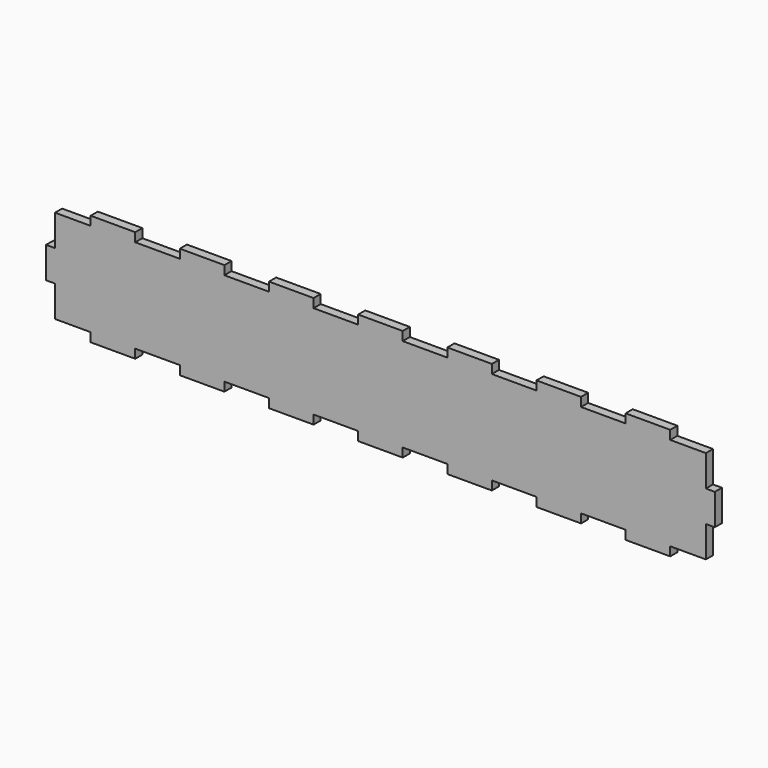
from build123d import *

# Parameters (mm, degrees)
F1_DEPTH = 4
F2_W     = 4
F2_H     = 14
F3_DEPTH = 4


with BuildPart() as f1:
    # F0 (on Front) → F1 (new body)
    with BuildSketch(Plane.XZ):
        Polygon((-40, 0), (-20, 0), (-20, 4), (0, 4), (0, 46), (-20, 46), (-20, 50), (-40, 50), (-40, 46), (-60, 46), (-60, 50), (-80, 50), (-80, 46), (-100, 46), (-100, 50), (-120, 50), (-120, 46), (-140, 46), (-140, 50), (-160, 50), (-160, 46), (-180, 46), (-180, 50), (-200, 50), (-200, 46), (-220, 46), (-220, 50), (-240, 50), (-240, 46), (-260, 46), (-260, 50), (-280, 50), (-280, 46), (-300, 46), (-300, 4), (-280, 4), (-280, 0), (-260, 0), (-260, 4), (-240, 4), (-240, 0), (-220, 0), (-220, 4), (-200, 4), (-200, 0), (-180, 0), (-180, 4), (-160, 4), (-160, 0), (-140, 0), (-140, 4), (-120, 4), (-120, 0), (-100, 0), (-100, 4), (-80, 4), (-80, 0), (-60, 0), (-60, 4), (-40, 4), align=None)
    extrude(amount=F1_DEPTH)

    # F2 (on Front) → F3 (cut)
    with BuildSketch(Plane.XZ):
        with Locations((-2, 39)):
            Rectangle(F2_W, F2_H)
        with Locations((-2, 11)):
            Rectangle(F2_W, F2_H)
        with Locations((-298, 11)):
            Rectangle(F2_W, F2_H)
        with Locations((-298, 39)):
            Rectangle(F2_W, F2_H)
    extrude(amount=F3_DEPTH, mode=Mode.SUBTRACT)


solid = f1.part
